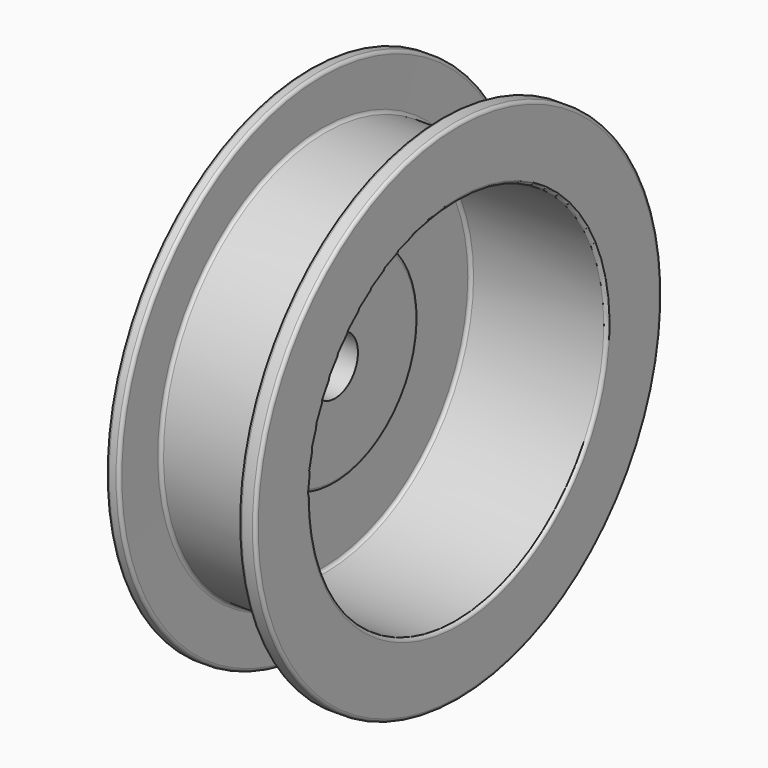
from build123d import *


with BuildPart() as f1:
    # F0 (on Front) → F1 (revolve)
    with BuildSketch(Plane.XZ):
        with BuildLine():
            Line((-50.8, 493.905346), (-50.8, 364.964068))
            ThreePointArc((-50.8, 364.964068), (-61.535219, 284.934519), (-50.8, 204.90497))
            Line((-50.8, 204.90497), (-50.8, 56.44232))
            Line((-50.8, 56.44232), (0, 56.44232))
            Line((0, 56.44232), (0, 198.55497))
            ThreePointArc((0, 198.55497), (-1.859872, 203.045098), (-6.35, 204.90497))
            Line((-6.35, 204.90497), (-19.006904, 204.90497))
            ThreePointArc((-19.006904, 204.90497), (-23.497032, 206.764842), (-25.356904, 211.25497))
            Line((-25.356904, 211.25497), (-25.356904, 358.614068))
            ThreePointArc((-25.356904, 358.614068), (-23.497032, 363.104196), (-19.006904, 364.964068))
            Line((-19.006904, 364.964068), (237.428735, 364.964068))
            ThreePointArc((237.428735, 364.964068), (241.918863, 366.82394), (243.778735, 371.314068))
            Line((243.778735, 371.314068), (243.778735, 493.905346))
            ThreePointArc((243.778735, 493.905346), (241.918863, 498.395474), (237.428735, 500.255346))
            Line((237.428735, 500.255346), (216.468532, 500.255346))
            ThreePointArc((216.468532, 500.255346), (211.978404, 498.395474), (210.118532, 493.905346))
            Line((210.118532, 493.905346), (210.118532, 398.52199))
            Line((210.118532, 398.52199), (-18.968134, 398.52199))
            ThreePointArc((-18.968134, 398.52199), (-23.471907, 400.395548), (-25.318016, 404.910641))
            Line((-25.318016, 404.910641), (-24.776544, 493.866695))
            ThreePointArc((-24.776544, 493.866695), (-26.622653, 498.381788), (-31.126426, 500.255346))
            Line((-31.126426, 500.255346), (-44.45, 500.255346))
            ThreePointArc((-44.45, 500.255346), (-48.940128, 498.395474), (-50.8, 493.905346))
        make_face()
    revolve(axis=Axis((46.021007, 0, 0), (-1, 0, 0)))


solid = f1.part
